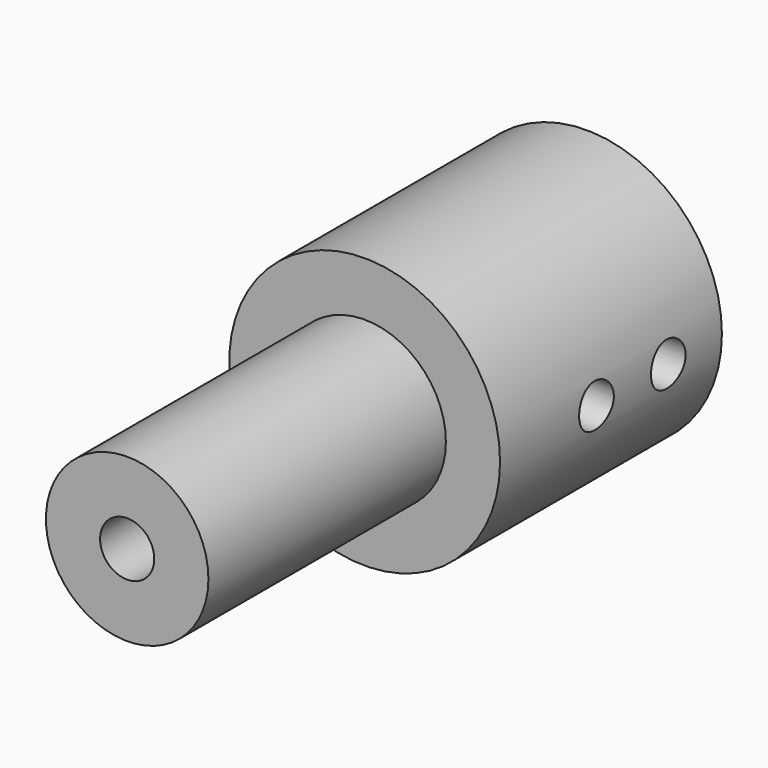
from build123d import *

# Parameters (mm, degrees)
F0_R     = 19.05
F0_R_2   = 6.35
F1_DEPTH = 134.62
F0_R_3   = 31.75
F2_DEPTH = 65.024
F3_R     = 5.08
F4_DEPTH = 114.3
F5_DEPTH = 89.662


with BuildPart() as f1:
    # F0 (on Front) → F1 (new body)
    with BuildSketch(Plane.XZ):
        Circle(F0_R)
        Circle(F0_R_2, mode=Mode.SUBTRACT)
    extrude(amount=F1_DEPTH)

    # F0 (on Front) → F2 (join)
    with BuildSketch(Plane.XZ):
        Circle(F0_R_3)
        Circle(F0_R, mode=Mode.SUBTRACT)
    extrude(amount=F2_DEPTH)

    # F3 (on Right) → F4 (cut)
    with BuildSketch(Plane.YZ):
        with Locations((-15.709256, 0)):
            Circle(F3_R)
        with Locations((-36.759584, 0)):
            Circle(F3_R)
    extrude(amount=-F4_DEPTH, mode=Mode.SUBTRACT)

    # F3 (on Right) → F5 (cut)
    with BuildSketch(Plane.YZ):
        with Locations((-15.709256, 0)):
            Circle(F3_R)
        with Locations((-36.759584, 0)):
            Circle(F3_R)
    extrude(amount=F5_DEPTH, mode=Mode.SUBTRACT)


solid = f1.part
